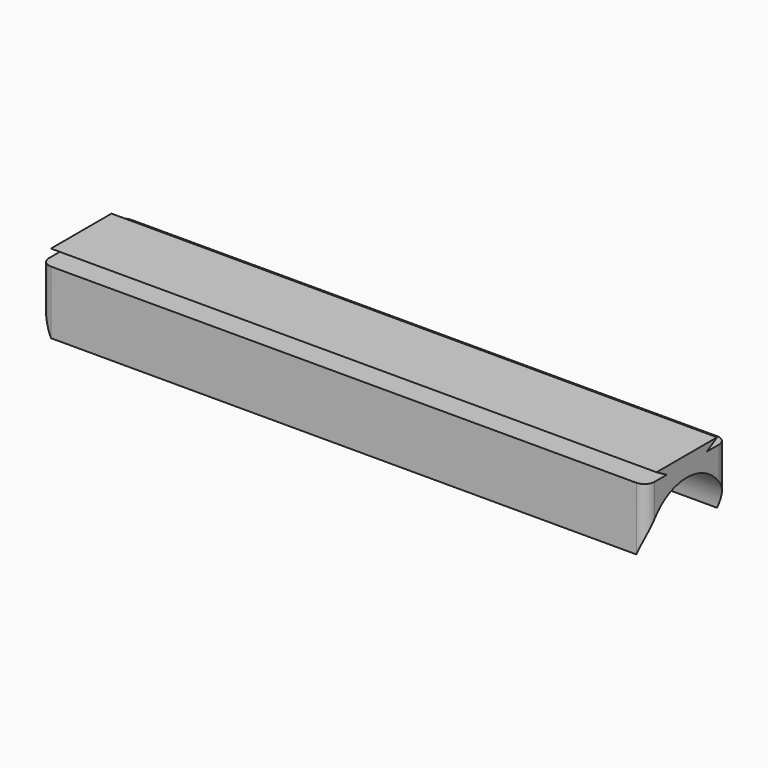
from build123d import *

# Parameters (mm, degrees)
F0_W     = 304.8
F0_H     = 50.8
F1_DEPTH = 31.75
F2_R     = 5.08
F4_DEPTH = 304.801
F6_DEPTH = 304.8


with BuildPart() as f1:
    # F0 (on Top) → F1 (new body)
    with BuildSketch(Plane.XY):
        Rectangle(F0_W, F0_H)
    extrude(amount=F1_DEPTH)

    # F2
    f2_edges = [f1.edges().sort_by_distance(p)[0] for p in [
        (-152.4, 25.4, 15.875),
        (-152.4, -25.4, 15.875),
        (152.4, 25.4, 15.875),
        (152.4, -25.4, 15.875),
    ]]
    fillet(f2_edges, radius=F2_R)

    # F3 (on face) → F4 (cut, through all)
    with BuildSketch(Plane(origin=(-152.4, 0, 0), x_dir=(0, -1, 0), z_dir=(-1, 0, 0))):
        with BuildLine():
            Line((-25.4, 0), (25.4, 0))
            ThreePointArc((25.4, 0), (0, 25.4), (-25.4, 0))
        make_face()
    extrude(amount=-F4_DEPTH, mode=Mode.SUBTRACT)

    # F5 (on face) → F6 (join, through all)
    with BuildSketch(Plane.YZ.offset(152.4)):
        Polygon((-12.7, 31.75), (0, 31.75), (12.7, 31.75), (19.05, 35.478412), (-19.05, 35.478412), align=None)
    extrude(amount=-F6_DEPTH)


solid = f1.part
